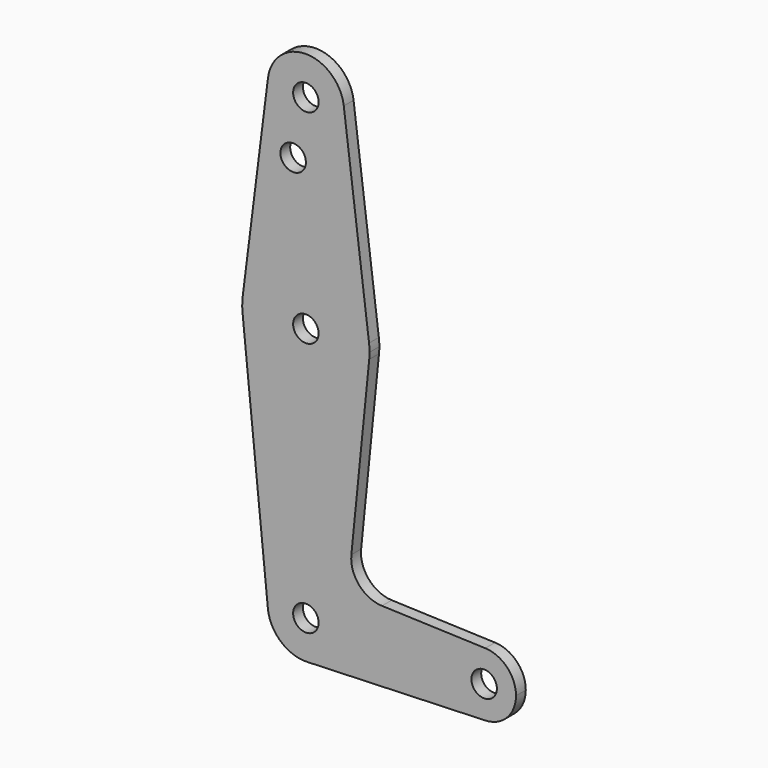
from build123d import *

# Parameters (mm, degrees)
F0_R     = 3.175
F1_DEPTH = 3.048


with BuildPart() as f1:
    # F0 (on Front) → F1 (new body)
    with BuildSketch(Plane.XZ):
        with BuildLine():
            ThreePointArc((-9.450293, 1.190625), (-0.596483, -9.506305), (9.525, 0))
            ThreePointArc((9.525, 0), (9.506305, 0.596483), (9.450293, 1.190625))
            ThreePointArc((9.450293, 1.190625), (0, 9.525), (-9.450293, 1.190625))
        make_face()
        Circle(F0_R, mode=Mode.SUBTRACT)
        with BuildLine():
            ThreePointArc((9.450293, 1.190625), (9.506305, 0.596483), (9.525, 0))
            ThreePointArc((9.525, 0), (-0.596483, -9.506305), (-9.450293, 1.190625))
            Line((-9.450293, 1.190625), (-15.750488, -48.815625))
            ThreePointArc((-15.750488, -48.815625), (0, -34.925), (15.750488, -48.815625))
            Line((15.750488, -48.815625), (9.450293, 1.190625))
        make_face()
        with Locations((-3.175, -14.2748)):
            Circle(F0_R, mode=Mode.SUBTRACT)
        with BuildLine():
            ThreePointArc((15.875, -50.8), (15.843841, -49.805861), (15.750488, -48.815625))
            ThreePointArc((15.750488, -48.815625), (0, -34.925), (-15.750488, -48.815625))
            ThreePointArc((-15.750488, -48.815625), (-15.873744, -50.600295), (-15.795426, -52.3875))
            ThreePointArc((-15.795426, -52.3875), (0, -66.675), (15.795426, -52.3875))
            ThreePointArc((15.795426, -52.3875), (15.855094, -51.594747), (15.875, -50.8))
        make_face()
        with Locations((0, -50.8)):
            Circle(F0_R, mode=Mode.SUBTRACT)
        with BuildLine():
            ThreePointArc((15.795426, -52.3875), (0, -66.675), (-15.795426, -52.3875))
            Line((-15.795426, -52.3875), (-9.477255, -115.2525))
            ThreePointArc((-9.477255, -115.2525), (-0.476848, -104.786944), (9.525, -114.3))
            ThreePointArc((9.525, -114.3), (6.854408, -120.913827), (0.340179, -123.818923))
            Line((0.340179, -123.818923), (44.733482, -122.232436))
            ThreePointArc((44.733482, -122.232436), (36.5125, -114.3), (44.733482, -106.367564))
            Line((44.733482, -106.367564), (18.9676, -105.446766))
            ThreePointArc((18.9676, -105.446766), (13.2612, -102.728641), (11.341187, -96.706618))
            Line((11.341187, -96.706618), (15.795426, -52.3875))
        make_face()
        with BuildLine():
            ThreePointArc((9.525, -114.3), (-0.476848, -104.786944), (-9.477255, -115.2525))
            ThreePointArc((-9.477255, -115.2525), (-6.262383, -121.47692), (0.340179, -123.818923))
            ThreePointArc((0.340179, -123.818923), (6.854408, -120.913827), (9.525, -114.3))
        make_face()
        with Locations((0, -114.3)):
            Circle(F0_R, mode=Mode.SUBTRACT)
        with BuildLine():
            ThreePointArc((44.733482, -106.367564), (36.5125, -114.3), (44.733482, -122.232436))
            ThreePointArc((44.733482, -122.232436), (50.162007, -119.811523), (52.3875, -114.3))
            ThreePointArc((52.3875, -114.3), (50.162007, -108.788477), (44.733482, -106.367564))
        make_face()
        with Locations((44.45, -114.3)):
            Circle(F0_R, mode=Mode.SUBTRACT)
    extrude(amount=F1_DEPTH)


solid = f1.part
